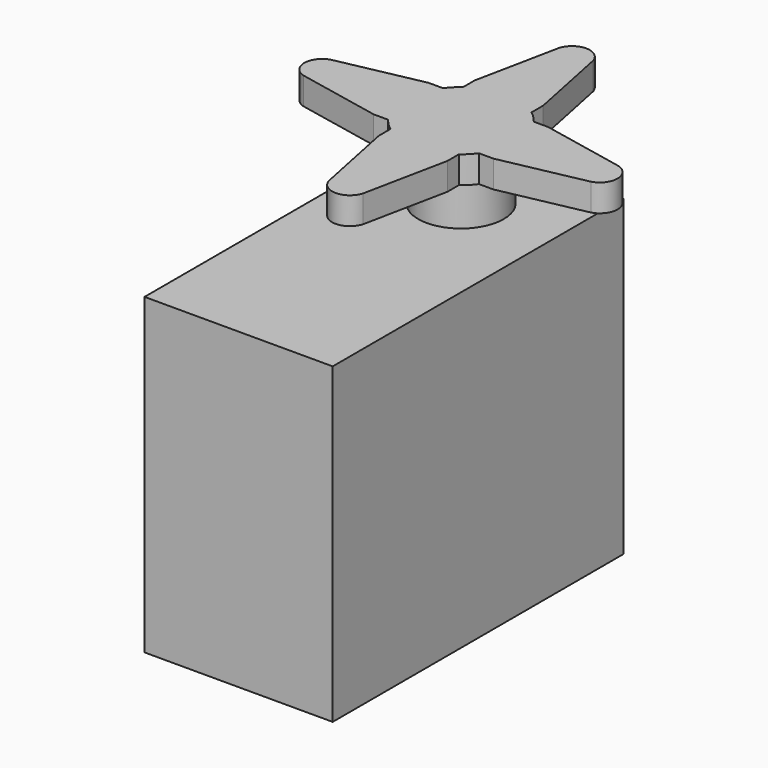
from build123d import *

# Parameters (mm, degrees)
F0_W     = 22
F0_H     = 42.5
F1_DEPTH = 36.6
F2_R     = 5
F3_DEPTH = 8.5
F6_DEPTH = 3.175
F7_DEPTH = 3.175
F8_COUNT = 4


with BuildPart() as f1:
    # F0 (on Top) → F1 (new body)
    with BuildSketch(Plane.XY):
        with Locations((11, 21.25)):
            Rectangle(F0_W, F0_H)
    extrude(amount=F1_DEPTH)

    # F2 (on face) → F3 (join)
    with BuildSketch(Plane.XY.offset(36.6)):
        with Locations((11, 32.5)):
            Circle(F2_R)
    extrude(amount=F3_DEPTH)

    # F5 (on offset) → F6 (join)
    with BuildSketch(Plane.XY.offset(45.1)):
        with BuildLine():
            ThreePointArc((7, 37.8124852941), (8.0316250237, 26.5492647513), (17.65, 32.5))
            ThreePointArc((17.65, 32.5), (16.9507352487, 35.4683749763), (15, 37.8124852941))
            Line((15, 37.8124852941), (7, 37.8124852941))
        make_face()
        with BuildLine():
            Line((7, 37.8124852941), (15, 37.8124852941))
            ThreePointArc((15, 37.8124852941), (11, 39.15), (7, 37.8124852941))
        make_face()
    extrude(amount=-F6_DEPTH)



with BuildPart() as f7:
    # F5 (on offset) → F7 (new body)
    with BuildSketch(Plane.XY.offset(45.1)):
        with BuildLine():
            ThreePointArc((7, 37.8124852941), (11, 39.15), (15, 37.8124852941))
            Line((15, 37.8124852941), (15, 39.5))
            Line((15, 39.5), (13, 49.3124852941))
            ThreePointArc((13, 49.3124852941), (11, 50.8124852941), (9, 49.3124852941))
            Line((9, 49.3124852941), (7, 39.5))
            Line((7, 39.5), (7, 37.8124852941))
        make_face()
    extrude(amount=-F7_DEPTH)


with BuildPart() as f1_1:
    add(f1.part)

    add(f7.part)  # F8 merges F7
    # F8: F7 ×4 about axis
    f8_axis = Axis((11, 32.5, 45.1), (0, 0, 1))
    for i in range(1, F8_COUNT):
        add(f7.part.rotate(f8_axis, i * 360 / F8_COUNT))


solid = f1_1.part
